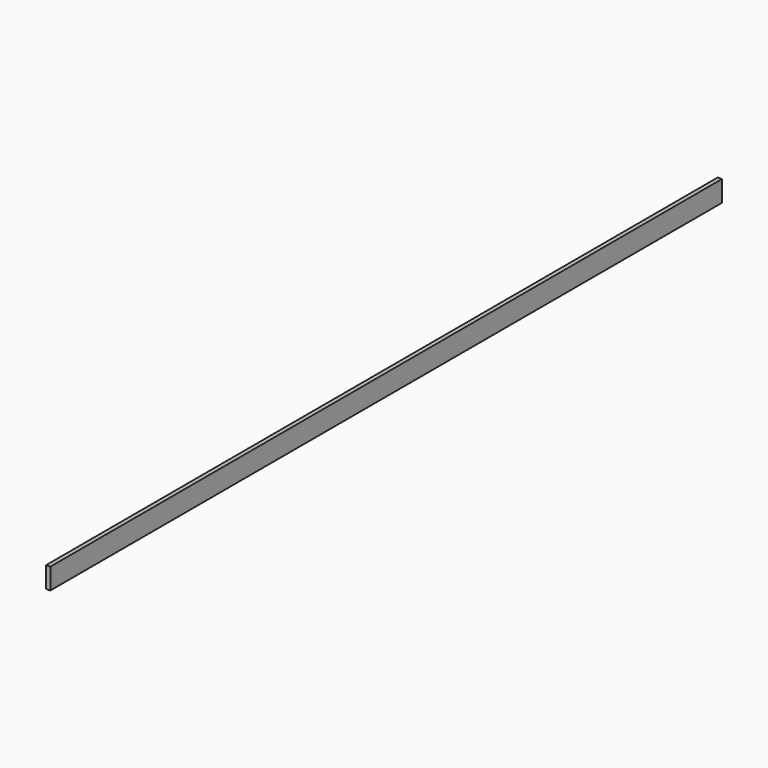
from build123d import *

# Parameters (mm, degrees)
F0_W = 30
F0_H = 150


with BuildPart() as f2:
    # F2: sweep along a path in F1
    with BuildLine(Plane.YZ) as f2_path:
        Line((0, 0), (-6000, 0))
    # F0 (on Front) → F2 (sweep)
    with BuildSketch(Plane.XZ):
        with Locations((-15, 75)):
            Rectangle(F0_W, F0_H)
    sweep(path=f2_path.line)


solid = f2.part
